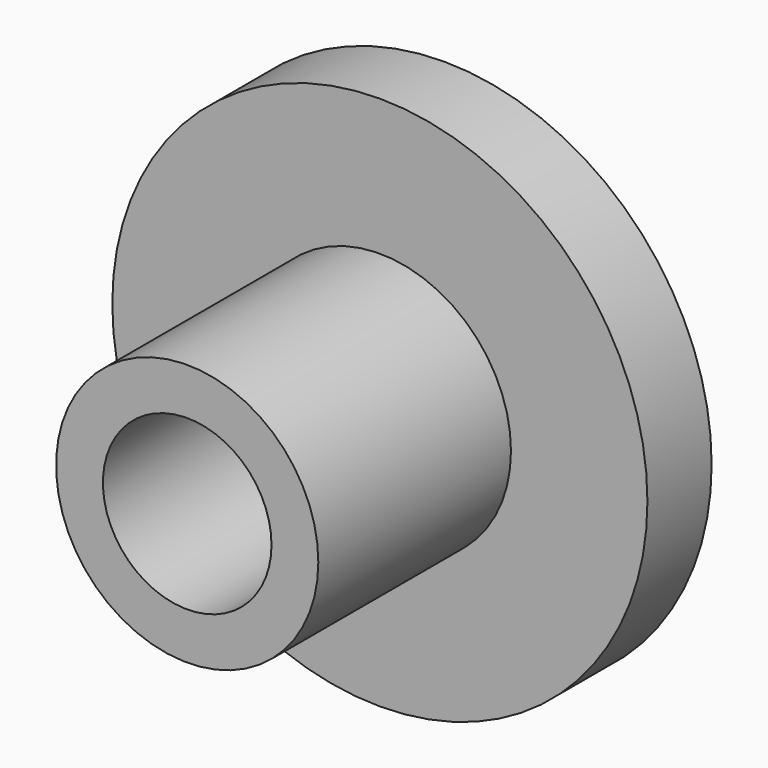
from build123d import *

# Parameters (mm, degrees)
F0_R     = 10
F0_R_2   = 3.15
F1_DEPTH = 12
F2_R     = 10
F2_R_2   = 4.9
F3_DEPTH = 9


with BuildPart() as f1:
    # F0 (on Front) → F1 (new body)
    with BuildSketch(Plane.XZ):
        Circle(F0_R)
        Circle(F0_R_2, mode=Mode.SUBTRACT)
    extrude(amount=-F1_DEPTH)

    # F2 (on face) → F3 (cut)
    with BuildSketch(Plane.XZ):
        Circle(F2_R)
        Circle(F2_R_2, mode=Mode.SUBTRACT)
    extrude(amount=-F3_DEPTH, mode=Mode.SUBTRACT)


solid = f1.part
